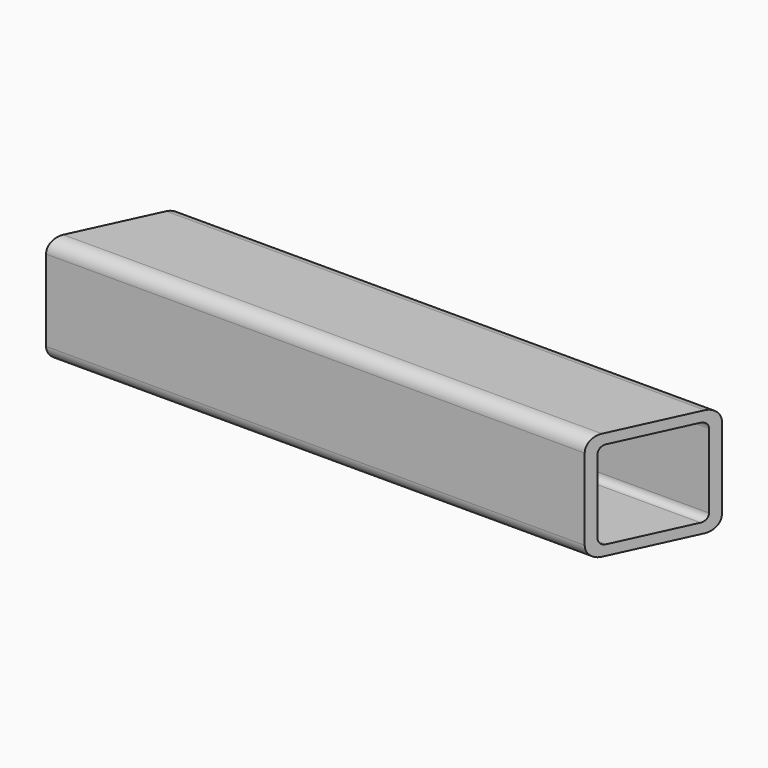
from build123d import *

# Parameters (mm, degrees)
F1_DEPTH = 1651
F3_DEPTH = 127


with BuildPart() as f1:
    # F0 (on Right) → F1 (new body)
    with BuildSketch(Plane.YZ):
        with BuildLine():
            Line((88.9, 0), (12.7, 0))
            ThreePointArc((12.7, 0), (3.719744, -3.719744), (0, -12.7))
            Line((0, -12.7), (0, -88.9))
            ThreePointArc((0, -88.9), (3.719744, -97.880256), (12.7, -101.6))
            Line((12.7, -101.6), (88.9, -101.6))
            ThreePointArc((88.9, -101.6), (97.880256, -97.880256), (101.6, -88.9))
            Line((101.6, -88.9), (101.6, -12.7))
            ThreePointArc((101.6, -12.7), (97.880256, -3.719744), (88.9, 0))
        make_face()
        with BuildLine():
            ThreePointArc((9.525, -15.875), (11.384872, -11.384872), (15.875, -9.525))
            Line((15.875, -9.525), (85.725, -9.525))
            ThreePointArc((85.725, -9.525), (90.215128, -11.384872), (92.075, -15.875))
            Line((92.075, -15.875), (92.075, -85.725))
            ThreePointArc((92.075, -85.725), (90.215128, -90.215128), (85.725, -92.075))
            Line((85.725, -92.075), (15.875, -92.075))
            ThreePointArc((15.875, -92.075), (11.384872, -90.215128), (9.525, -85.725))
            Line((9.525, -85.725), (9.525, -15.875))
        make_face(mode=Mode.SUBTRACT)
    extrude(amount=F1_DEPTH)

    # F2 (on Top) → F3 (cut)
    with BuildSketch(Plane.XY):
        Polygon((505.073142, 0), (1651, 0), (1651, 12.7), (1651, 88.9), (1651, 101.6), (552.45, 101.6), align=None)
        Polygon((0, 12.7), (0, 0), (47.376858, 101.6), (0, 101.6), (0, 88.9), align=None)
    extrude(amount=-F3_DEPTH, mode=Mode.SUBTRACT)


solid = f1.part
